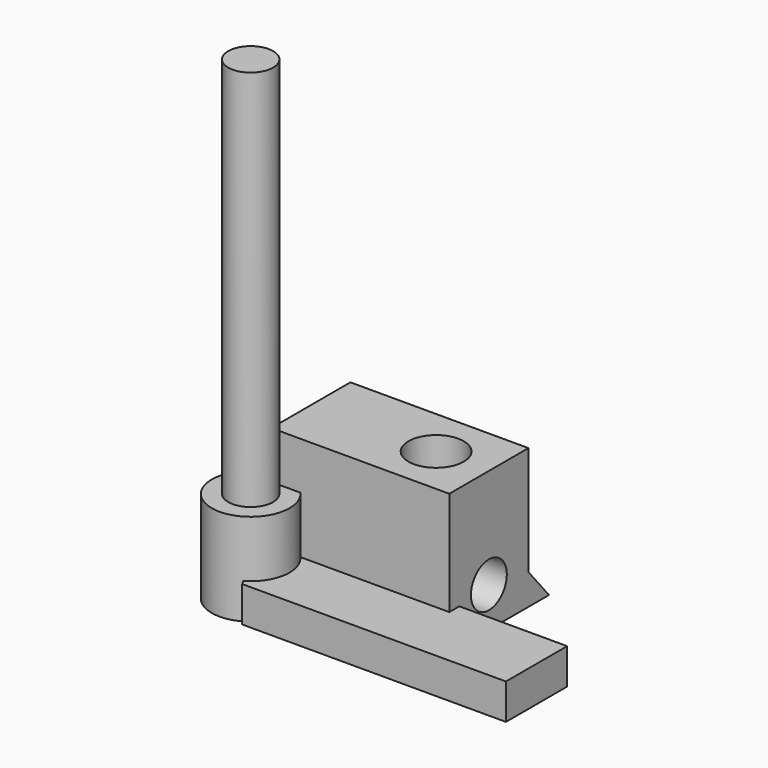
from build123d import *

# Parameters (mm, degrees)
CYLINDER_R           = 2.95
CYLINDER_DEPTH       = 7
CYLINDER001_R        = 1.7
CYLINDER001_DEPTH    = 30
PAD002_DEPTH         = 2.7
CLONE001_PITCH_ANGLE = 90
CLONE_PITCH_ANGLE    = 90
CYLINDER002_R        = 2.1
CYLINDER002_DEPTH    = 10
PAD_DEPTH            = 13.5


with BuildPart() as m3bolthead:
    # Cylinder → Cylinder (new body)
    with BuildSketch(Plane.XY):
        Circle(CYLINDER_R)
    extrude(amount=CYLINDER_DEPTH)


with BuildPart() as m3bolt:
    # Cylinder001 → Cylinder001 (new body)
    with BuildSketch(Plane.XY.offset(6)):
        Circle(CYLINDER001_R)
    extrude(amount=CYLINDER001_DEPTH)

    # Fusion: union M3BoltHead
    add(m3bolthead.part)


with BuildPart() as m3nuthousing:
    # Sketch003 → Pad002 (new body)
    with BuildSketch(Plane.XY):
        Polygon((0, 0), (1.674316, 2.9), (21.674316, 2.9), (21.674316, -2.9), (1.674316, -2.9), align=None)
    extrude(amount=PAD002_DEPTH)


with BuildPart() as clone_of_m3bolt:
    # Clone001 base: copy of M3Bolt
    add(m3bolt.part)


with BuildPart() as clone_of_m3bolt_1:
    # Clone001 pitch: moved
    add(clone_of_m3bolt.part.rotate(Axis((0, 0, 0), (0, 1, 0)), CLONE001_PITCH_ANGLE))


with BuildPart() as clone_of_m3bolt_2:
    # Clone001 placement: moved
    add(clone_of_m3bolt_1.part.moved(Location((-16.5, 5.7, 3))))


with BuildPart() as clone_of_m3nuthousing:
    # Clone base: copy of M3NutHousing
    add(m3nuthousing.part)


with BuildPart() as clone_of_m3nuthousing_1:
    # Clone pitch: moved
    add(clone_of_m3nuthousing.part.rotate(Axis((0, 0, 0), (0, 1, 0)), CLONE_PITCH_ANGLE))


with BuildPart() as clone_of_m3nuthousing_2:
    # Clone placement: moved
    add(clone_of_m3nuthousing_1.part.moved(Location((2.5, 5.7, 6.5))))


with BuildPart() as fusion001:
    # Cylinder002 → Cylinder002 (new body)
    with BuildSketch(Plane(origin=(9.5, 5.7, 5.5), x_dir=(1, 0, 0), z_dir=(0, 0, 1))):
        Circle(CYLINDER002_R)
    extrude(amount=CYLINDER002_DEPTH)

    # Fusion001: union Clone of M3Bolt, Clone of M3NutHousing
    add(clone_of_m3bolt_2.part)
    add(clone_of_m3nuthousing_2.part)


with BuildPart() as obj1:
    # Sketch027 → Pad (new body)
    with BuildSketch(Plane.YZ):
        Polygon((1.95, 2.32392), (0, 0), (11.4, 0), (9.45, 2.32392), (9.45, 10.6), (1.95, 10.6), align=None)
    extrude(amount=PAD_DEPTH)

    # Cut: cut Fusion001
    add(fusion001.part, mode=Mode.SUBTRACT)


solid = Compound([m3bolt.part, m3nuthousing.part, obj1.part])
